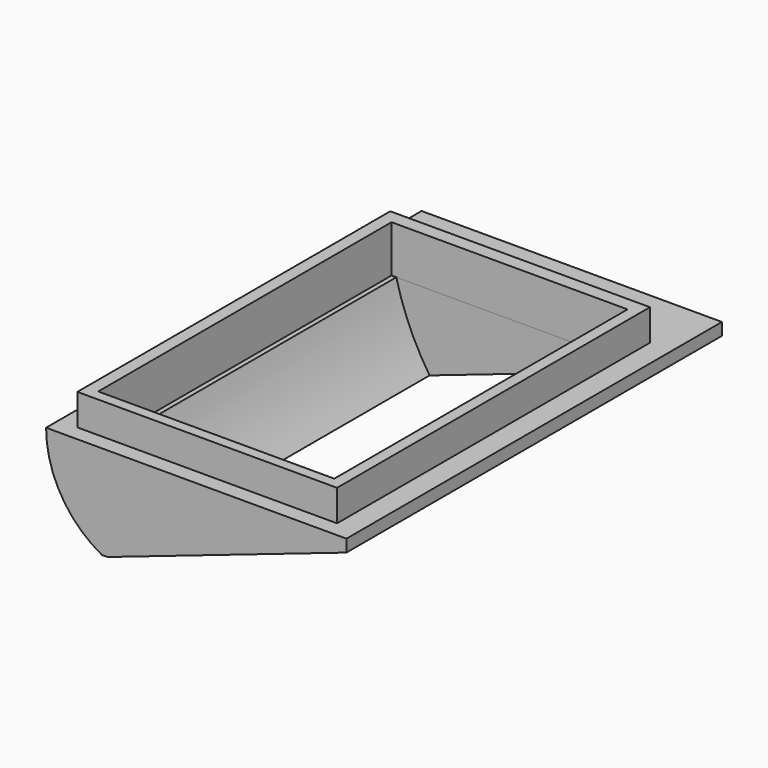
from build123d import *

# Parameters (mm, degrees)
SKETCH_W        = 16.6
SKETCH_H        = 25
PAD_DEPTH       = 2
SKETCH001_W     = 19.4
SKETCH001_H     = 30
PAD001_DEPTH    = 6
POCKET_DEPTH    = 30.001
SKETCH003_W     = 15.087606
SKETCH003_H     = 23.432943
POCKET001_DEPTH = 3
POCKET002_DEPTH = 23


with BuildPart() as part:
    # Sketch → Pad (new body)
    with BuildSketch(Plane.XY):
        with Locations((0, -0.5)):
            Rectangle(SKETCH_W, SKETCH_H)
    extrude(amount=PAD_DEPTH)

    # Sketch001 (on Face5 of Pad) → Pad001 (join)
    with BuildSketch(Plane(origin=(0, 0, 0), x_dir=(1, 0, 0), z_dir=(0, 0, -1))):
        with Locations((0, -1)):
            Rectangle(SKETCH001_W, SKETCH001_H)
    extrude(amount=PAD001_DEPTH)

    # Sketch002 (on Face1 of Pad001) → Pocket (cut, through all)
    with BuildSketch(Plane.XZ.offset(14)):
        with BuildLine():
            ThreePointArc((-9.5, 0), (-8.500128, -3.558582), (-5.793155, -6.075635))
            Line((10.964428, -0.352326), (-5.793155, -6.075635))
            Line((10.964428, -0.352326), (10.392425, -13.720259))
            Line((10.392425, -13.720259), (-15.284175, -12.512696))
            Line((-9.5, 2.985816), (-15.284175, -12.512696))
            Line((-9.5, 0), (-9.5, 2.985816))
        make_face()
    extrude(amount=-POCKET_DEPTH, mode=Mode.SUBTRACT)

    # Sketch003 (on Face12 of Pocket) → Pocket001 (cut)
    with BuildSketch(Plane.XY.offset(2)):
        with Locations((0.03044, -0.598662)):
            Rectangle(SKETCH003_W, SKETCH003_H)
    extrude(amount=-POCKET001_DEPTH, mode=Mode.SUBTRACT)

    # Sketch004 (on Face13 of Pocket001) → Pocket002 (cut)
    with BuildSketch(Plane.XZ.offset(-11.117809)):
        with BuildLine():
            Line((7.061974, 0.986589), (-7.423936, 0))
            ThreePointArc((-7.423936, 0), (-5.193689, -5.663316), (-0.979385, -10.054988))
            Line((-0.979385, -10.054988), (7.061974, 0.986589))
        make_face()
    extrude(amount=POCKET002_DEPTH, mode=Mode.SUBTRACT)


solid = part.part
